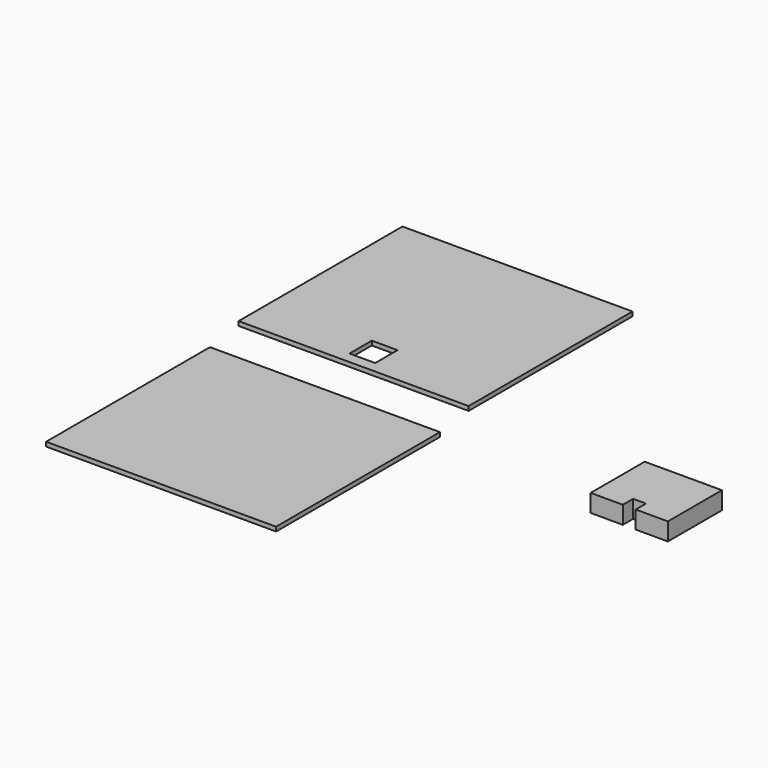
from build123d import *

# Parameters (mm, degrees)
F1_DEPTH = 419.1
F2_W     = 609.6
F2_H     = 660.4
F3_DEPTH = 101.6
F4_W     = 5448.3
F4_H     = 4851.4
F5_DEPTH = 101.6


with BuildPart() as f1:
    # F0 (on Top) → F1 (new body)
    with BuildSketch(Plane.XY):
        Polygon((923.666438, 969.817395), (-905.133562, 969.817395), (-905.133562, -630.382605), (-143.133562, -630.382605), (-143.133562, -325.582605), (161.666438, -325.582605), (161.666438, -630.382605), (923.666438, -630.382605), align=None)
    extrude(amount=F1_DEPTH)


with BuildPart() as f3:
    # F2 (on face) → F3 (new body)
    with BuildSketch(Plane.XY.offset(419.1)):
        Polygon((-7144.088812, 522.504811), (-4718.388812, 522.504811), (-4718.388812, 5373.904811), (-10166.688812, 5373.904811), (-10166.688812, 522.504811), (-7753.688812, 522.504811), align=None)
        with Locations((-7448.888812, 1119.404811)):
            Rectangle(F2_W, F2_H, mode=Mode.SUBTRACT)
    extrude(amount=F3_DEPTH)


with BuildPart() as f5:
    # F4 (on face) → F5 (new body)
    with BuildSketch(Plane.XY.offset(419.1)):
        with Locations((-7204.511404, -3049.575722)):
            Rectangle(F4_W, F4_H)
    extrude(amount=F5_DEPTH)


solid = Compound([f1.part, f3.part, f5.part])
